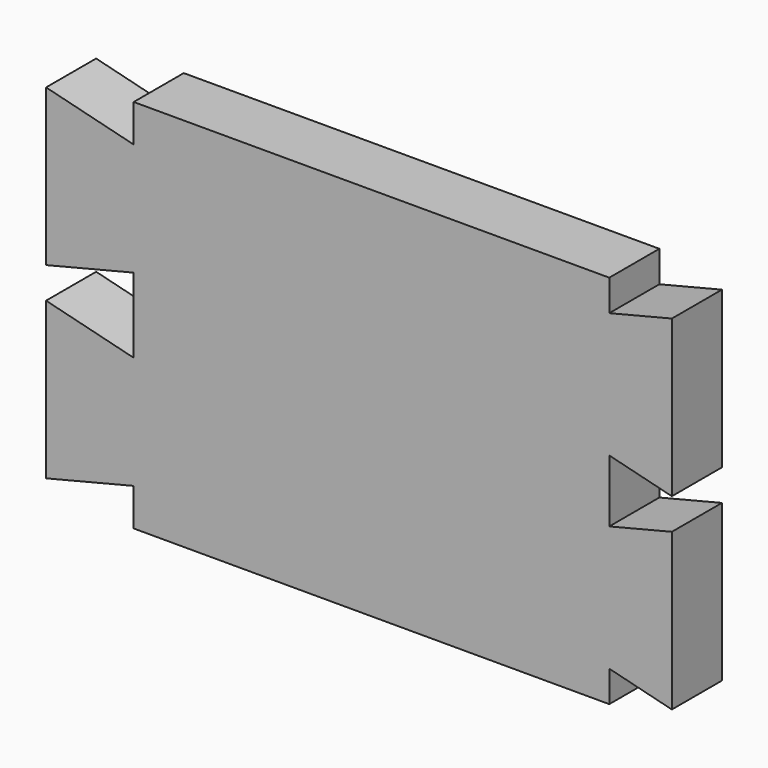
from build123d import *

# Parameters (mm, degrees)
F1_DEPTH = 12.7


with BuildPart() as f1:
    # F0 (on Front) → F1 (new body)
    with BuildSketch(Plane.XZ):
        Polygon((114.3, 0), (17.78, 0), (17.78, -7.608052), (0, -3.175), (0, -34.925), (17.78, -30.491948), (17.78, -38.1), (17.78, -45.708052), (0, -41.275), (0, -73.025), (17.78, -68.591948), (17.78, -76.2), (114.3, -76.2), (114.3, -69.858534), (127, -73.025), (127, -41.275), (114.3, -44.441466), (114.3, -38.1), (114.3, -31.758534), (127, -34.925), (127, -3.175), (114.3, -6.341466), align=None)
    extrude(amount=F1_DEPTH)


solid = f1.part
